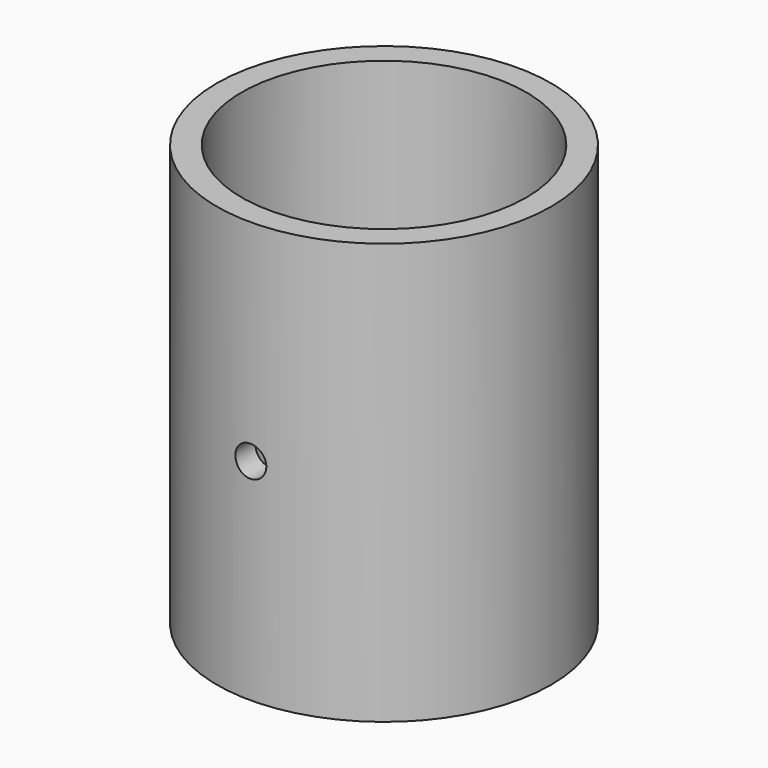
from build123d import *

# Parameters (mm, degrees)
F0_R     = 27
F0_R_2   = 23
F1_DEPTH = 68
F3_R     = 2.5
F4_DEPTH = 27.001


with BuildPart() as f1:
    # F0 (on Top) → F1 (new body)
    with BuildSketch(Plane.XY):
        Circle(F0_R)
        Circle(F0_R_2, mode=Mode.SUBTRACT)
    extrude(amount=F1_DEPTH)

    # F3 (on Front) → F4 (cut, through all)
    with BuildSketch(Plane.XZ):
        with Locations((0, 34)):
            Circle(F3_R)
    extrude(amount=F4_DEPTH, mode=Mode.SUBTRACT)


solid = f1.part
